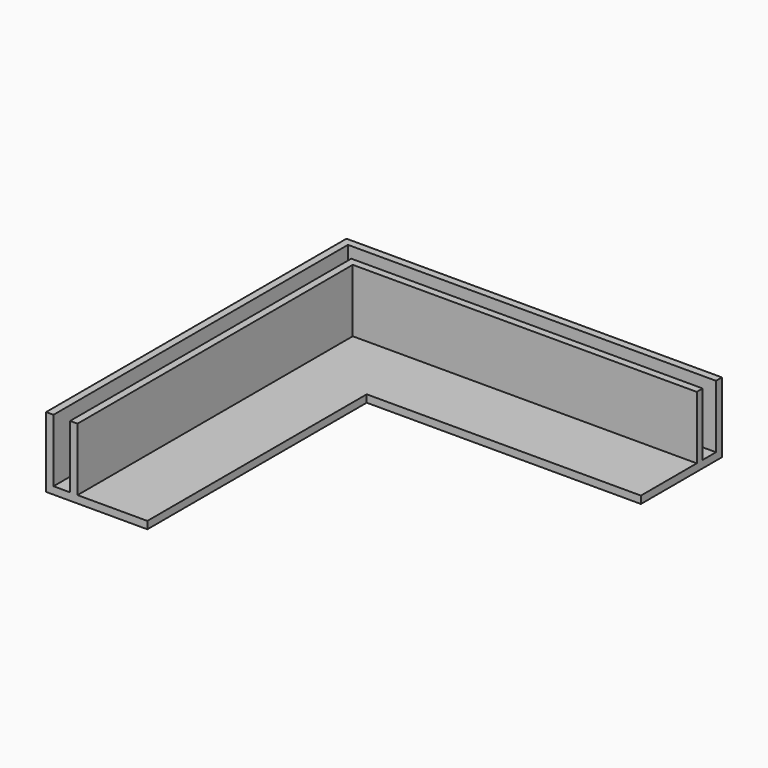
from build123d import *

# Parameters (mm, degrees)
F0_W      = 101.6
F0_H      = 101.6
F1_DEPTH  = 2.0066
F3_DEPTH  = 17.018
F4_W      = 95.0976
F4_H      = 95.0976
F5_DEPTH  = 17.018
F6_W      = 93.091
F6_H      = 93.091
F7_DEPTH  = 19.0256
F8_W      = 93.091
F8_H      = 2.0066
F9_DEPTH  = 18.8976
F10_W     = 74.1934
F10_H     = 2.0066
F11_DEPTH = 18.8976


with BuildPart() as f1:
    # F0 (on Top) → F1 (new body)
    with BuildSketch(Plane.XY):
        Rectangle(F0_W, F0_H)
    extrude(amount=-F1_DEPTH)

    # F2 (on face) → F3 (join)
    with BuildSketch(Plane.XY):
        Polygon((-50.8, -50.8), (-48.7934, -50.8), (-48.7934, 48.7934), (50.8, 48.7934), (50.8, 50.8), (-50.8, 50.8), align=None)
    extrude(amount=F3_DEPTH)

    # F4 (on face) → F5 (join, through all)
    with BuildSketch(Plane.XY):
        with Locations((3.2512, -3.2512)):
            Rectangle(F4_W, F4_H)
    extrude(amount=F5_DEPTH)

    # F6 (on face) → F7 (cut, through all)
    with BuildSketch(Plane.XY.offset(17.018)):
        with Locations((4.2545, -4.2545)):
            Rectangle(F6_W, F6_H)
    extrude(amount=-F7_DEPTH, mode=Mode.SUBTRACT)

    # F8 (on face) → F9 (join)
    with BuildSketch(Plane.YZ.offset(-42.291)):
        with Locations((-4.2545, -1.0033)):
            Rectangle(F8_W, F8_H)
    extrude(amount=F9_DEPTH)

    # F10 (on face) → F11 (join)
    with BuildSketch(Plane.XZ.offset(-42.291)):
        with Locations((13.7033, -1.0033)):
            Rectangle(F10_W, F10_H)
    extrude(amount=F11_DEPTH)


solid = f1.part
